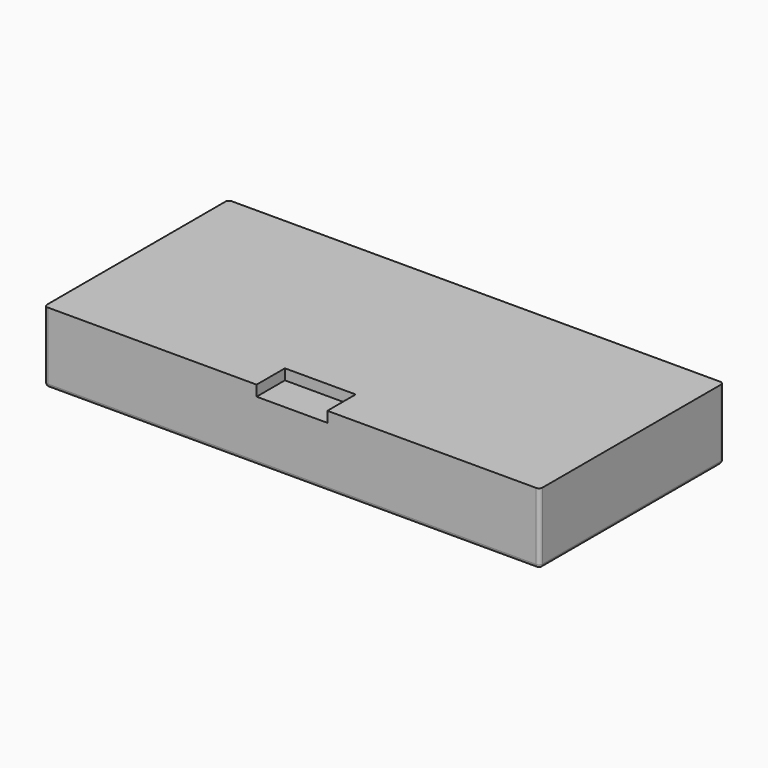
from build123d import *

# Parameters (mm, degrees)
F1_DEPTH = 3
F0_W     = 20
F0_H     = 10
F2_DEPTH = 2
F3_W     = 45
F3_H     = 7
F3_R     = 14
F3_W_2   = 12
F3_H_2   = 9
F4_DEPTH = 15
F5_R     = 5
F6_R     = 2
F7_R     = 1


with BuildPart() as f1:
    # F0 (on Top) → F1 (new body)
    with BuildSketch(Plane.XY):
        Polygon((0, 65), (0, 0), (60, 0), (60, 10), (80, 10), (80, 0), (140, 0), (140, 65), align=None)
    extrude(amount=F1_DEPTH)

    # F1_face (on face) + F0 (on Top) → F2 (join)
    with BuildSketch(Plane(origin=(70, 33.1179775281, 3), x_dir=(1, 0, 0), z_dir=(0, 0, 1))):
        Polygon((-70, 31.8820224719), (-70, -33.1179775281), (-10, -33.1179775281), (-10, -23.1179775281), (10, -23.1179775281), (10, -33.1179775281), (70, -33.1179775281), (70, 31.8820224719), align=None)
    with BuildSketch(Plane.XY):
        with Locations((70, 5)):
            Rectangle(F0_W, F0_H)
    extrude(amount=F2_DEPTH)

    # F3 (on face) → F4 (join)
    with BuildSketch(Plane.XY):
        Polygon((61, 5), (61, 10), (60, 10), (60, 0), (80, 0), (80, 5), align=None)
        Polygon((61, 60), (135, 60), (135, 5), (80, 5), (80, 0), (140, 0), (140, 65), (0, 65), (0, 0), (60, 0), (60, 10), (61, 10), align=None)
        Polygon((10, 12), (33, 12), (33, 10), (11.25, 10), (10, 10), (10, 11.25), align=None, mode=Mode.SUBTRACT)
        with BuildLine():
            Line((43, 12.5), (50.5, 12.5))
            ThreePointArc((50.5, 12.5), (51.3838834765, 12.1338834765), (51.75, 11.25))
            ThreePointArc((51.75, 11.25), (51.3838834765, 10.3661165235), (50.5, 10))
            Line((50.5, 10), (43, 10))
            ThreePointArc((43, 10), (42.1161165235, 10.3661165235), (41.75, 11.25))
            ThreePointArc((41.75, 11.25), (42.1161165235, 12.1338834765), (43, 12.5))
        make_face(mode=Mode.SUBTRACT)
        with Locations((32.5, 23.5)):
            Rectangle(F3_W, F3_H, mode=Mode.SUBTRACT)
        with Locations((42, 46)):
            Circle(F3_R, mode=Mode.SUBTRACT)
        with Locations((16, 50.5)):
            Rectangle(F3_W_2, F3_H_2, mode=Mode.SUBTRACT)
    extrude(amount=-F4_DEPTH)

    # F5
    f5_edges = [f1.edges().sort_by_distance(p)[0] for p in [
        (98, 60, 0),
        (61, 32.5, 0),
        (98, 5, 0),
        (135, 32.5, 0),
    ]]
    fillet(f5_edges, radius=F5_R)

    # F6
    f6_edges = [f1.edges().sort_by_distance(p)[0] for p in [
        (98, 60, -15),
        (135, 32.5, -15),
        (98, 5, -15),
        (61, 32.5, -15),
        (28, 46, -15),
        (16, 55, -15),
        (10, 50.5, -15),
        (16, 46, -15),
        (22, 50.5, -15),
        (32.5, 27, -15),
        (10, 23.5, -15),
        (32.5, 20, -15),
        (55, 23.5, -15),
        (46.75, 12.5, -15),
        (21.5, 10, -15),
        (33, 11, -15),
        (21.5, 12, -15),
        (10, 11, -15),
    ]]
    fillet(f6_edges, radius=F6_R)

    # F7
    f7_edges = [f1.edges().sort_by_distance(p)[0] for p in [
        (140, 32.5, -15),
        (70, 65, -15),
        (0, 32.5, -15),
        (70, 0, -15),
        (0, 0, -5),
        (140, 0, -5),
        (140, 65, -5),
        (0, 65, -5),
    ]]
    fillet(f7_edges, radius=F7_R)


solid = f1.part
